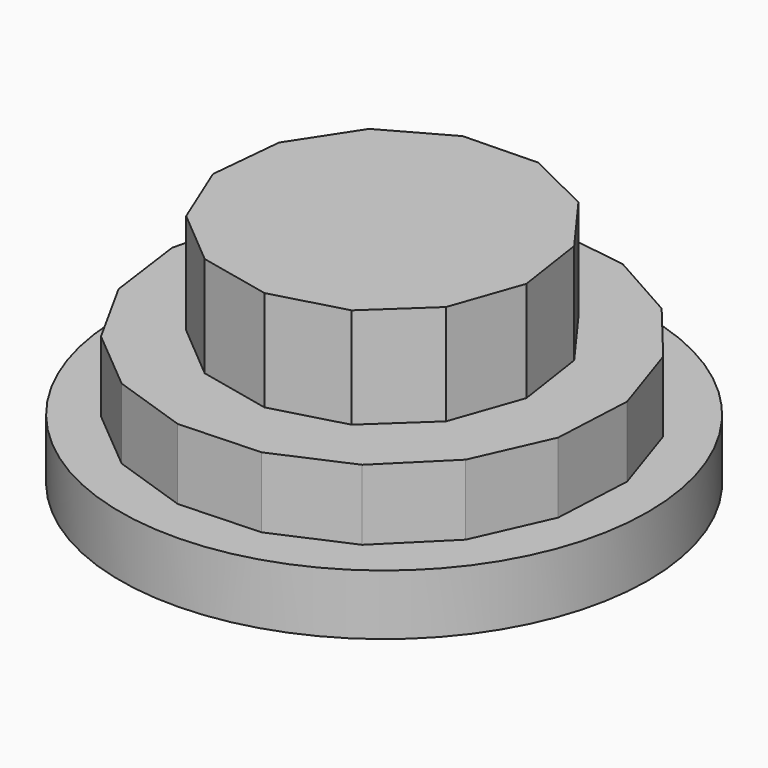
from build123d import *

# Parameters (mm, degrees)
F0_R     = 66.619234
F1_DEPTH = 15.24
F3_DEPTH = 17.78
F5_DEPTH = 25.4


with BuildPart() as f1:
    # F0 (on Top) → F1 (new body)
    with BuildSketch(Plane.XY):
        Circle(F0_R)
    extrude(amount=F1_DEPTH)

    # F2 (on face) → F3 (join)
    with BuildSketch(Plane.XY.offset(15.24)):
        Polygon((-39.33026, 39.587958), (-50.975195, 22.706943), (-55.735648, 2.759229), (-52.968692, -17.561134), (-43.048021, -35.509768), (-27.313476, -48.662612), (-7.890095, -55.2433), (12.598887, -54.363074), (31.386319, -46.140814), (45.934856, -31.686981), (54.279635, -12.953646), (55.293649, 7.52915), (48.83995, 26.995094), (35.790144, 42.8152), (17.906681, 52.852876), (-2.395178, 55.752479), (-22.373555, 51.1224), align=None)
    extrude(amount=F3_DEPTH)

    # F4 (on face) → F5 (join)
    with BuildSketch(Plane.XY.offset(33.02)):
        Polygon((-31.556715, -23.003328), (-17.251904, -35.033573), (1.005111, -39.038048), (19.031867, -34.099376), (32.698651, -21.348949), (38.874569, -3.707734), (36.144791, 14.782877), (25.134678, 29.88691), (8.366512, 38.144212), (-10.31832, 37.663134), (-26.63935, 28.553887), (-36.857626, 12.903288), (-38.632264, -5.703299), align=None)
    extrude(amount=F5_DEPTH)


solid = f1.part
